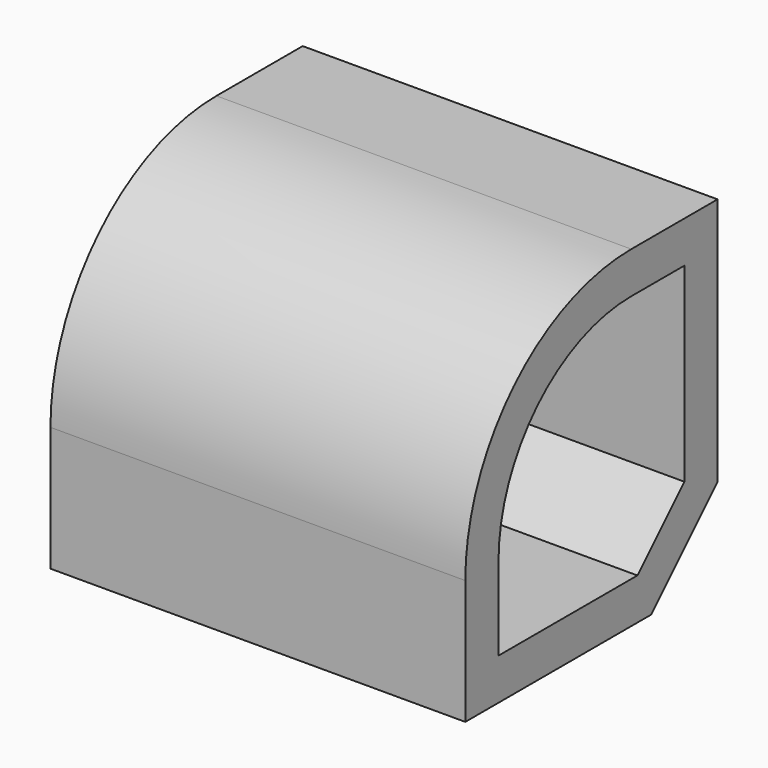
from build123d import *

# Parameters (mm, degrees)
F0_W     = 254
F0_H     = 203.2
F1_DEPTH = 193.04
F2_R     = 127
F3_SIZE  = 50.8
F4_T     = -25.4


with BuildPart() as f1:
    # F0 (on Front) → F1 (new body)
    with BuildSketch(Plane.XZ):
        with Locations((3.474914, 28.0605)):
            Rectangle(F0_W, F0_H)
    extrude(amount=F1_DEPTH)

    # F2
    f2_edges = [f1.edges().sort_by_distance(p)[0] for p in [
        (3.474914, -193.04, 129.6605),
    ]]
    fillet(f2_edges, radius=F2_R)

    # F3
    f3_edges = [f1.edges().sort_by_distance(p)[0] for p in [
        (3.474914, 0, -73.5395),
    ]]
    chamfer(f3_edges, length=F3_SIZE)

    # F4
    f4_openings = [f1.faces().sort_by_distance(p)[0] for p in [
        (130.474914, -92.656111, 23.8767),
    ]]
    offset(amount=F4_T, openings=f4_openings)


solid = f1.part
